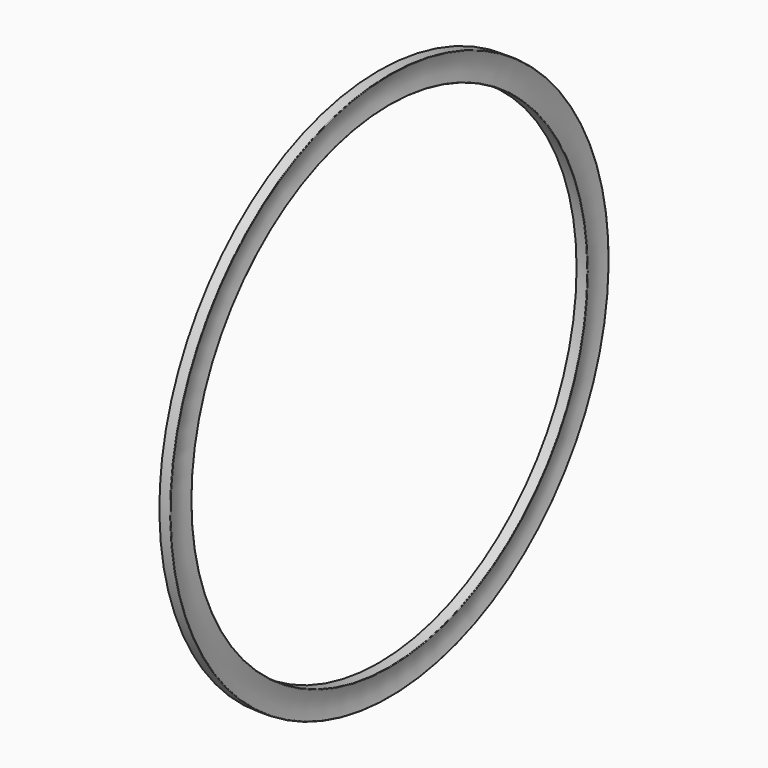
from build123d import *


with BuildPart() as f1:
    # F0 (on Front) → F1 (revolve)
    with BuildSketch(Plane.XZ):
        with BuildLine():
            ThreePointArc((-0.036947, 47.701152), (-0.04654, 47.770573), (-0.108772, 47.8028))
            Line((-0.108772, 47.8028), (-1.943022, 47.8028))
            Line((-1.943022, 47.8028), (-1.943022, 43.1546))
            Line((-1.943022, 43.1546), (-0.108772, 43.1546))
            ThreePointArc((-0.108772, 43.1546), (-0.04654, 43.186827), (-0.036947, 43.256248))
            ThreePointArc((-0.036947, 43.256248), (-0.419022, 45.4787), (-0.036947, 47.701152))
        make_face()
    revolve(axis=Axis((-3.079263, 0, 0), (-1, 0, 0)))


solid = f1.part
